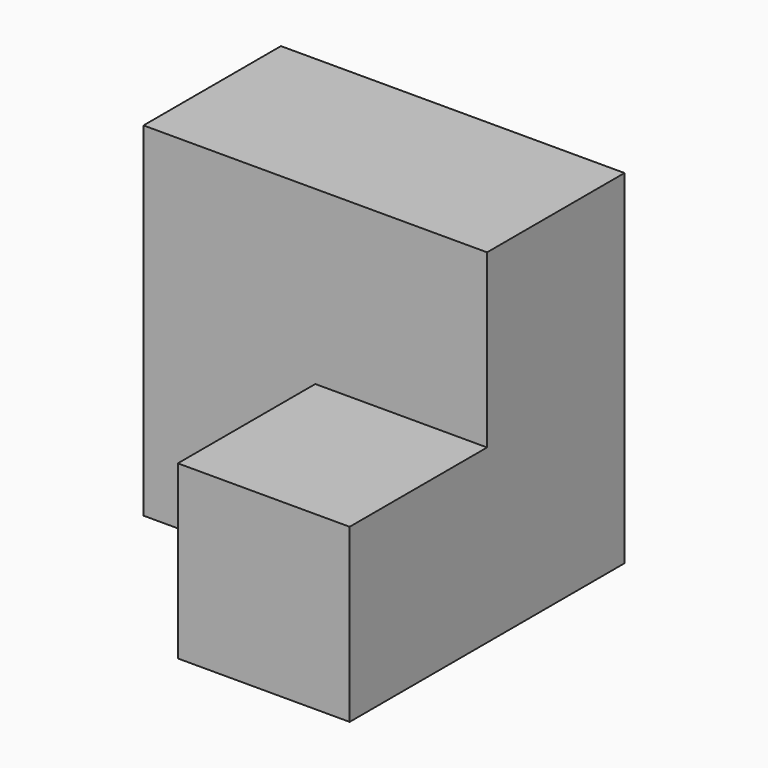
from build123d import *

# Parameters (mm, degrees)
F1_W     = 25.4
F1_H     = 25.4
F2_DEPTH = 50.8
F0_W     = 50.8
F0_H     = 50.8
F3_DEPTH = 25.4
F4_DEPTH = 25.4


with BuildPart() as f2:
    # F1 (on face) → F2 (new body)
    with BuildSketch(Plane.XZ):
        with Locations((-12.7, 12.7)):
            Rectangle(F1_W, F1_H)
    extrude(amount=F2_DEPTH)

    # F0 (on Front) → F3 (join)
    with BuildSketch(Plane.XZ):
        with Locations((-25.4, 25.4)):
            Rectangle(F0_W, F0_H)
    extrude(amount=F3_DEPTH)

    # F0 (on Front) → F4 (join)
    with BuildSketch(Plane.XZ):
        with Locations((-25.4, 25.4)):
            Rectangle(F0_W, F0_H)
        with Locations((-25.4, 25.4)):
            Rectangle(F0_W, F0_H)
    extrude(amount=F4_DEPTH)


solid = f2.part
